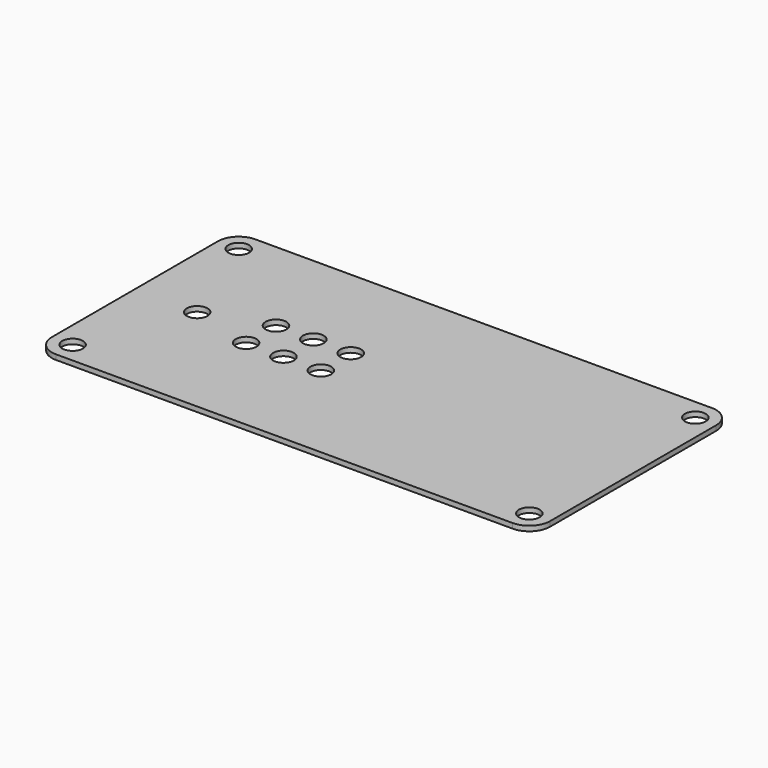
from build123d import *

# Parameters (mm, degrees)
F1_DEPTH = 6
F2_D     = 25
F3_D     = 25
F4_D     = 25
F5_D     = 25


with BuildPart() as f1:
    # F0 (on Top) → F1 (new body)
    with BuildSketch(Plane.XY):
        with BuildLine():
            Line((-275, -150), (275, -150))
            ThreePointArc((275, -150), (292.6776695297, -142.6776695297), (300, -125))
            Line((300, -125), (300, 125))
            ThreePointArc((300, 125), (292.6776695297, 142.6776695297), (275, 150))
            Line((275, 150), (-275, 150))
            ThreePointArc((-275, 150), (-292.6776695297, 142.6776695297), (-300, 125))
            Line((-300, 125), (-300, -125))
            ThreePointArc((-300, -125), (-292.6776695297, -142.6776695297), (-275, -150))
        make_face()
    extrude(amount=F1_DEPTH)

    # F2 (through all)
    with Locations(Plane(origin=(0, 0, 0), x_dir=(1, 0, 0), z_dir=(0, 0, -1))):
        with Locations((-275, 125)):
            Hole(F2_D / 2)

    # F3 (through all)
    with Locations(Plane(origin=(0, 0, 0), x_dir=(1, 0, 0), z_dir=(0, 0, -1))):
        with Locations((-275, -125), (275, 125)):
            Hole(F3_D / 2)

    # F4 (through all)
    with Locations(Plane(origin=(0, 0, 0), x_dir=(1, 0, 0), z_dir=(0, 0, -1))):
        with Locations((275, -125)):
            Hole(F4_D / 2)

    # F5 (through all)
    with Locations(Plane(origin=(0, 0, 0), x_dir=(1, 0, 0), z_dir=(0, 0, -1))):
        with Locations((-150, -24.8980756774), (-105, -24.8980756774), (-60, -24.8980756774), (-60, 20.1019243226), (-105, 20.1019243226), (-150, 20.1019243226), (-225, 0)):
            Hole(F5_D / 2)


solid = f1.part
